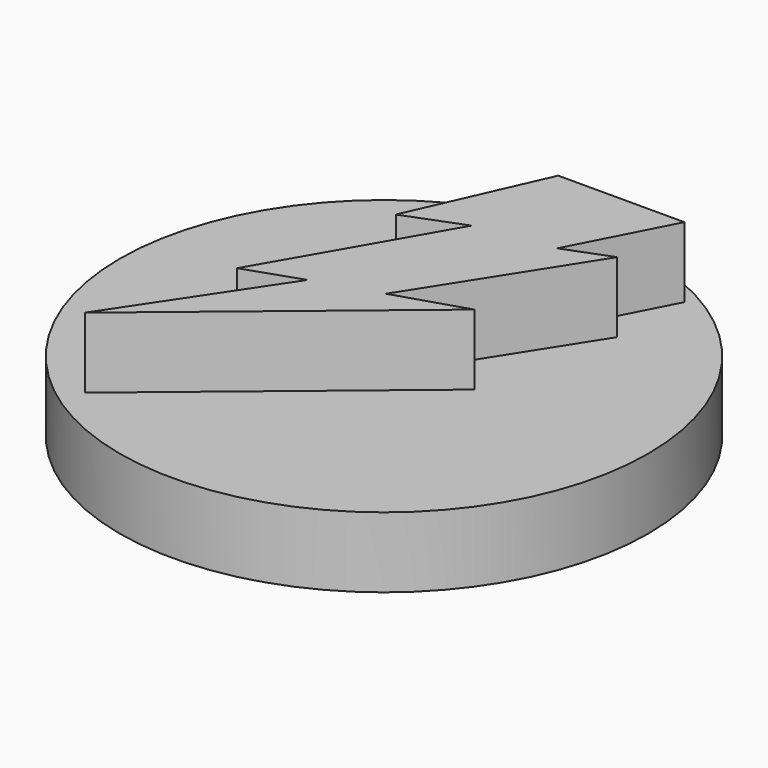
from build123d import *

# Parameters (mm, degrees)
F0_R     = 7.5
F1_DEPTH = 2
F3_DEPTH = 2


with BuildPart() as f1:
    # F0 (on Top) → F1 (new body)
    with BuildSketch(Plane.XY):
        Circle(F0_R)
    extrude(amount=F1_DEPTH)

    # F2 (on face) → F3 (join)
    with BuildSketch(Plane.XY.offset(2)):
        Polygon((3.580205, 6.186631), (0, 6.182709), (-1.645398, 2.474013), (0, 3.108835), (-2.781395, -1.735857), (-1.211046, -1.20127), (-4.08445, -5.511376), (2.567615, 0), (0.559772, -0.633272), (3.466587, 3.944127), (2.163532, 3.442952), align=None)
    extrude(amount=F3_DEPTH)


solid = f1.part
